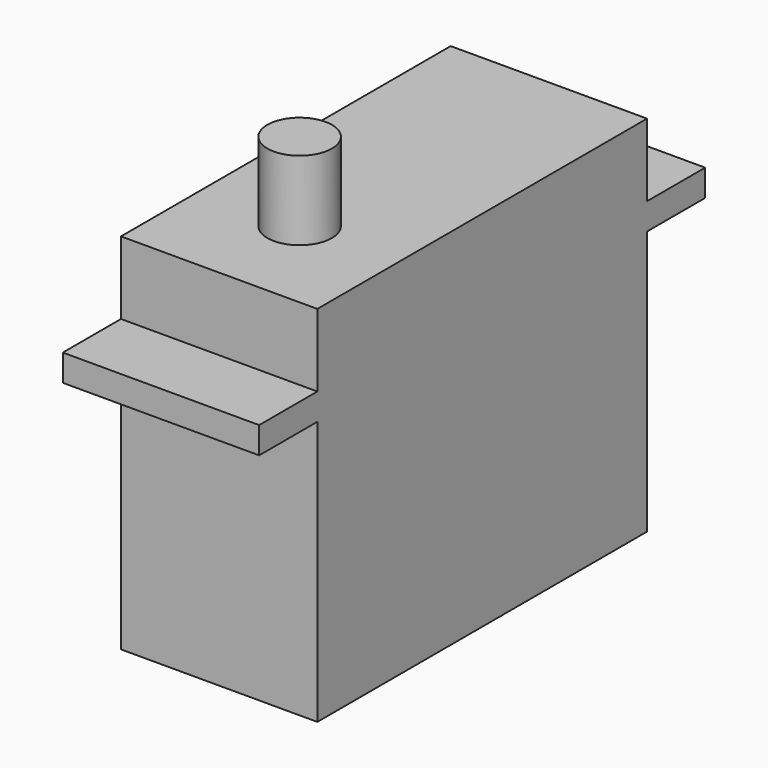
from build123d import *

# Parameters (mm, degrees)
F1_DEPTH = 20.574
F2_R     = 3.377667
F3_DEPTH = 8.255


with BuildPart() as f1:
    # F0 (on Right) → F1 (new body)
    with BuildSketch(Plane.YZ):
        Polygon((0, 27.686), (0, 0), (43.18, 0), (43.18, 27.686), (50.8, 27.686), (50.8, 30.48), (43.18, 30.48), (43.18, 38.1), (0, 38.1), (0, 30.48), (-7.62, 30.48), (-7.62, 27.686), align=None)
    extrude(amount=F1_DEPTH)

    # F2 (on face) → F3 (join)
    with BuildSketch(Plane.XY.offset(38.1)):
        with Locations((10.287, 10.541)):
            Circle(F2_R)
    extrude(amount=F3_DEPTH)


solid = f1.part
